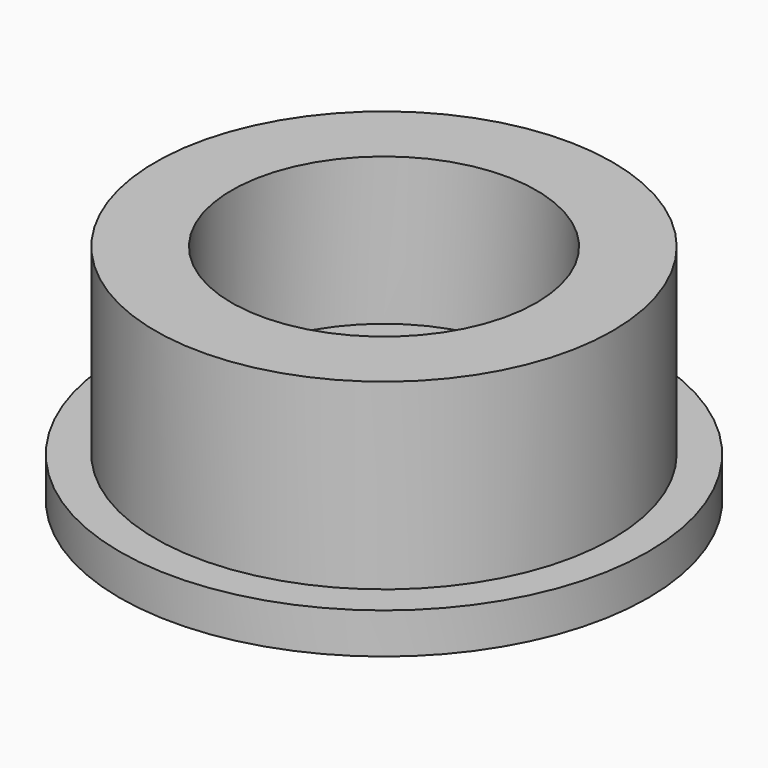
from build123d import *

# Parameters (mm, degrees)
F0_R     = 26
F0_R_2   = 22.5
F1_DEPTH = 4
F2_DEPTH = 22
F3_T     = -7.5


with BuildPart() as f1:
    # F0 (on Top) → F1 (new body)
    with BuildSketch(Plane.XY):
        Circle(F0_R)
        Circle(F0_R_2, mode=Mode.SUBTRACT)
    extrude(amount=F1_DEPTH)

    # F0 (on Top) → F2 (join)
    with BuildSketch(Plane.XY):
        Circle(F0_R_2)
    extrude(amount=F2_DEPTH)

    # F3
    f3_openings = [f1.faces().sort_by_distance(p)[0] for p in [
        (0, 0, 22),
    ]]
    offset(amount=F3_T, openings=f3_openings)


solid = f1.part
